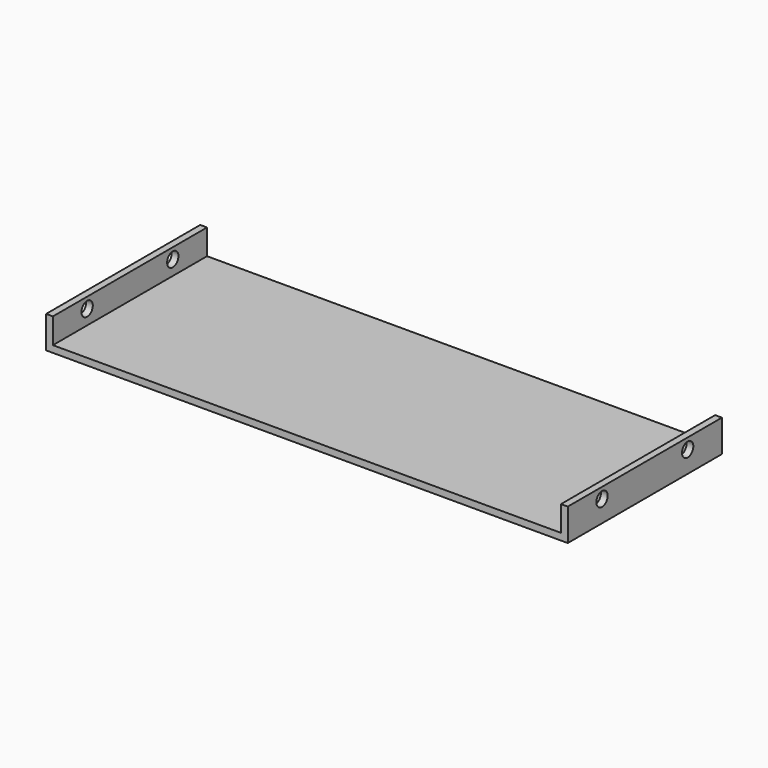
from build123d import *

# Parameters (mm, degrees)
F1_DEPTH = 45
F2_R     = 3.3
F3_DEPTH = 243.651


with BuildPart() as f1:
    # F0 (on Front) → F1 (new body, symmetric)
    with BuildSketch(Plane.XZ):
        Polygon((118.65, 13.4125), (118.65, 1.5875), (-118.65, 1.5875), (-118.65, 13.4125), (-121.825, 13.4125), (-121.825, 1.5875), (-121.825, -1.5875), (-118.65, -1.5875), (118.65, -1.5875), (121.825, -1.5875), (121.825, 1.5875), (121.825, 13.4125), align=None)
    extrude(amount=F1_DEPTH, both=True)

    # F2 (on face) → F3 (cut, through all)
    with BuildSketch(Plane.YZ.offset(121.825)):
        with Locations((-25, 8.4125)):
            Circle(F2_R)
        with Locations((25, 8.4125)):
            Circle(F2_R)
    extrude(amount=-F3_DEPTH, mode=Mode.SUBTRACT)


solid = f1.part
